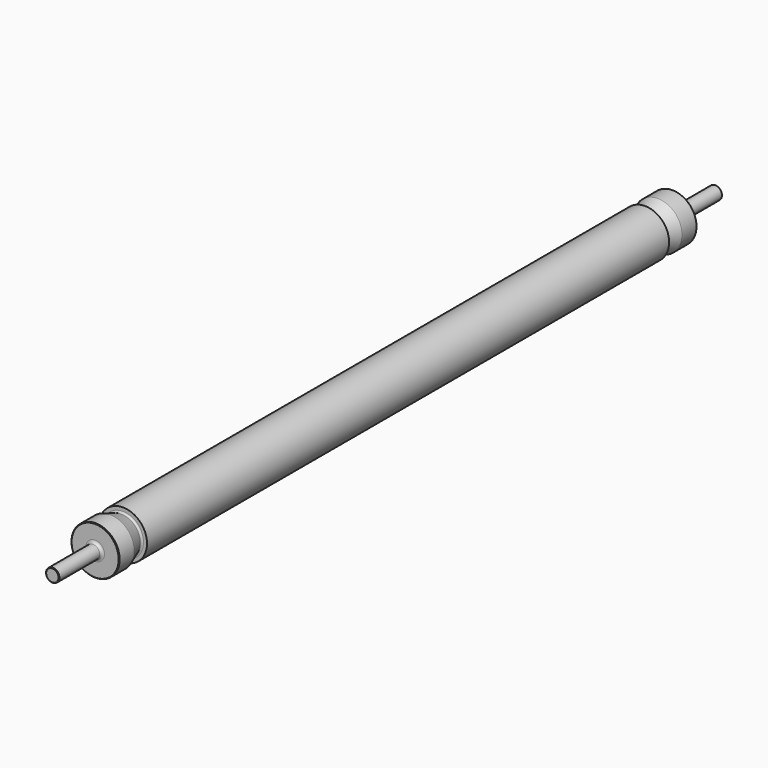
from build123d import *

# Parameters (mm, degrees)
F2_R    = 5
F3_SIZE = 1


with BuildPart() as f1:
    # F0 (on Right) → F1 (revolve)
    with BuildSketch(Plane.YZ):
        with BuildLine():
            Line((0, 12.5), (0, 0))
            Line((0, 0), (185, 0))
            Line((185, 0), (185, 39))
            Line((185, 39), (1365, 39))
            Line((1365, 39), (1365, 0))
            Line((1365, 0), (1550, 0))
            Line((1550, 0), (1550, 12.5))
            Line((1550, 12.5), (1450, 12.5))
            Line((1450, 12.5), (1450, 45))
            Line((1450, 45), (1415, 45))
            Line((1415, 45), (1389.02606, 35.546259))
            ThreePointArc((1389.02606, 35.546259), (1386.279271, 35.907881), (1385, 38.365337))
            Line((1385, 38.365337), (1385, 45))
            Line((1385, 45), (165, 45))
            Line((165, 45), (165, 38.365337))
            ThreePointArc((165, 38.365337), (163.720729, 35.907881), (160.97394, 35.546259))
            Line((160.97394, 35.546259), (135, 45))
            Line((135, 45), (100, 45))
            Line((100, 45), (100, 12.5))
            Line((100, 12.5), (0, 12.5))
        make_face()
    revolve(axis=Axis((0, 1457.5, 0), (0, -1, 0)))

    # F2
    f2_edges = [f1.edges().sort_by_distance(p)[0] for p in [
        (0, 1450, -12.5),
        (0, 100, -12.5),
    ]]
    fillet(f2_edges, radius=F2_R)

    # F3
    f3_edges = [f1.edges().sort_by_distance(p)[0] for p in [
        (0, 1450, -45),
        (0, 1550, -12.5),
        (0, 0, -12.5),
        (0, 100, -45),
    ]]
    chamfer(f3_edges, length=F3_SIZE)


solid = f1.part
